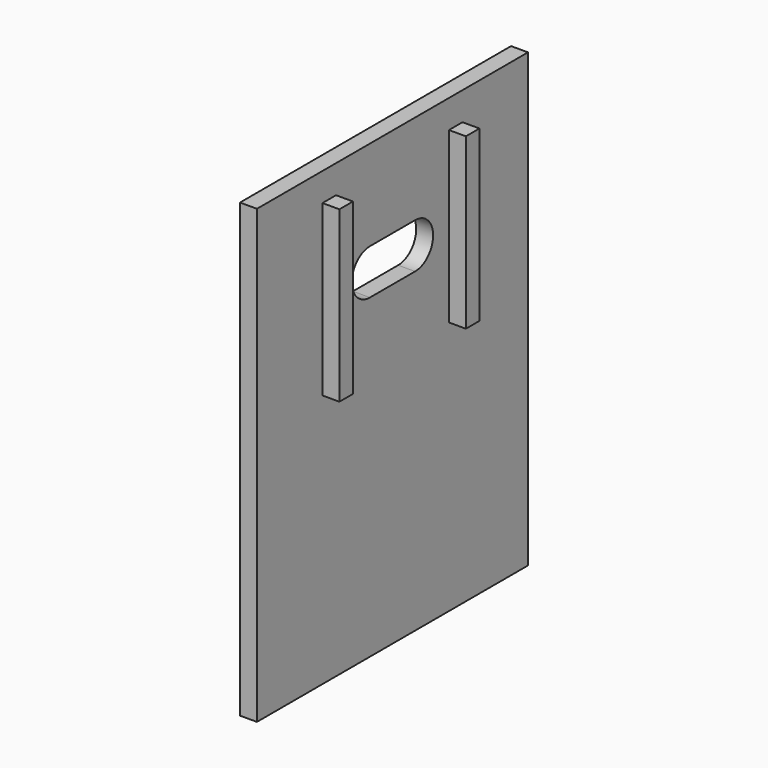
from build123d import *

# Parameters (mm, degrees)
F0_W     = 60
F0_H     = 80
F1_DEPTH = 3
F2_W     = 3
F2_H     = 30
F3_DEPTH = 3


with BuildPart() as f1:
    # F0 (on Right) → F1 (new body)
    with BuildSketch(Plane.YZ):
        with Locations((-30, 40)):
            Rectangle(F0_W, F0_H)
        with BuildLine():
            ThreePointArc((-35, 56), (-39, 60), (-35, 64))
            Line((-35, 64), (-25, 64))
            ThreePointArc((-25, 64), (-21, 60), (-25, 56))
            Line((-25, 56), (-35, 56))
        make_face(mode=Mode.SUBTRACT)
    extrude(amount=F1_DEPTH)

    # F2 (on face) → F3 (join)
    with BuildSketch(Plane.YZ.offset(3)):
        with Locations((-44, 60)):
            Rectangle(F2_W, F2_H)
        with Locations((-16, 60)):
            Rectangle(F2_W, F2_H)
    extrude(amount=F3_DEPTH)


solid = f1.part
